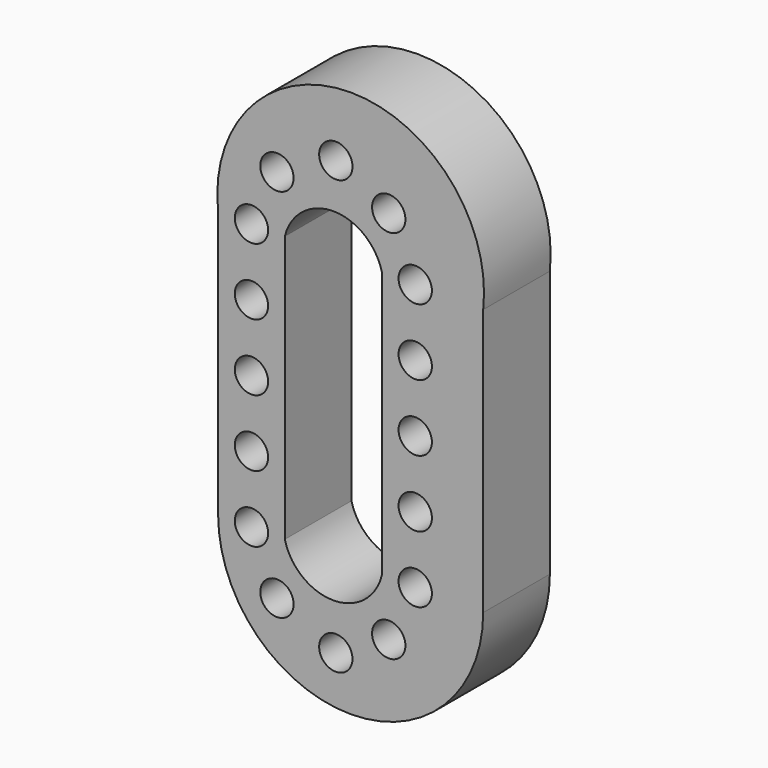
from build123d import *

# Parameters (mm, degrees)
F0_R     = 5
F1_DEPTH = 25


with BuildPart() as f1:
    # F0 (on Front) → F1 (new body)
    with BuildSketch(Plane.XZ):
        with BuildLine():
            ThreePointArc((44.202886, 38.641287), (4.450733, 83.087214), (-35.301421, 38.641287))
            Line((-35.301421, 38.641287), (-35.301421, -41.358713))
            ThreePointArc((-35.301421, -41.358713), (4.450733, -81.110867), (44.202886, -41.358713))
            Line((44.202886, -41.358713), (44.202886, 38.641287))
        make_face()
        with Locations((-17.662896, -57.657674)):
            Circle(F0_R, mode=Mode.SUBTRACT)
        with Locations((-25.301421, -41.358713)):
            Circle(F0_R, mode=Mode.SUBTRACT)
        with Locations((0, -66.3588)):
            Circle(F0_R, mode=Mode.SUBTRACT)
        with Locations((-25.301421, -21.358713)):
            Circle(F0_R, mode=Mode.SUBTRACT)
        with Locations((-25.301421, -1.358713)):
            Circle(F0_R, mode=Mode.SUBTRACT)
        with BuildLine():
            ThreePointArc((-15.301421, 38.641287), (-0.742925, 50.028783), (13.815571, 38.641287))
            Line((13.815571, 38.641287), (13.815571, -41.358713))
            ThreePointArc((13.815571, -41.358713), (-0.742925, -52.746209), (-15.301421, -41.358713))
            Line((-15.301421, -41.358713), (-15.301421, 38.641287))
        make_face(mode=Mode.SUBTRACT)
        with Locations((15.870508, -57.657674)):
            Circle(F0_R, mode=Mode.SUBTRACT)
        with Locations((23.815571, -41.358713)):
            Circle(F0_R, mode=Mode.SUBTRACT)
        with Locations((23.815571, -21.358713)):
            Circle(F0_R, mode=Mode.SUBTRACT)
        with Locations((23.815571, -1.358713)):
            Circle(F0_R, mode=Mode.SUBTRACT)
        with Locations((-25.301421, 18.641287)):
            Circle(F0_R, mode=Mode.SUBTRACT)
        with Locations((-25.301421, 38.641287)):
            Circle(F0_R, mode=Mode.SUBTRACT)
        with Locations((-17.662896, 54.878572)):
            Circle(F0_R, mode=Mode.SUBTRACT)
        with Locations((0, 63.641374)):
            Circle(F0_R, mode=Mode.SUBTRACT)
        with Locations((23.815571, 18.641287)):
            Circle(F0_R, mode=Mode.SUBTRACT)
        with Locations((23.815571, 38.641287)):
            Circle(F0_R, mode=Mode.SUBTRACT)
        with Locations((15.870508, 54.878572)):
            Circle(F0_R, mode=Mode.SUBTRACT)
    extrude(amount=F1_DEPTH)


solid = f1.part
